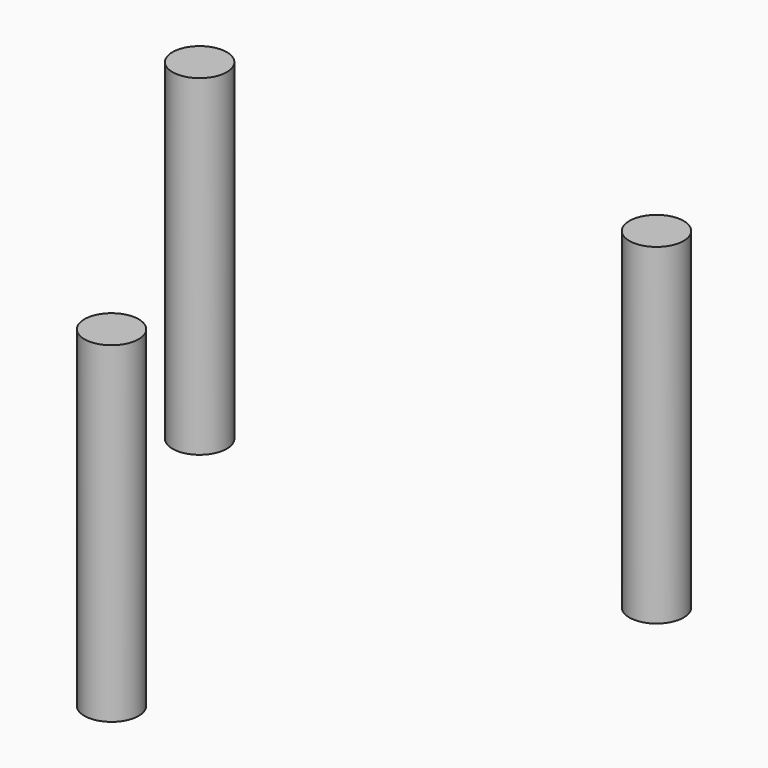
from build123d import *

# Parameters (mm, degrees)
CYLINDER028_R               = 0.9
CYLINDER028_DEPTH           = 11
CYLINDER028_PLACEMENT_ANGLE = 120
CYLINDER029_R               = 0.9
CYLINDER029_DEPTH           = 11
CYLINDER029_PLACEMENT_ANGLE = 240
CYLINDER027_R               = 0.9
CYLINDER027_DEPTH           = 11


with BuildPart() as cylinder028:
    # Cylinder028 → Cylinder028 (new body)
    with BuildSketch(Plane.XY):
        Circle(CYLINDER028_R)
    extrude(amount=CYLINDER028_DEPTH)


with BuildPart() as cylinder028_1:
    # Cylinder028 placement: moved
    add(cylinder028.part.moved(Location((7.577722, 4.375, -2.5))).rotate(Axis((7.577722, 4.375, -2.5), (0, 0, 1)), CYLINDER028_PLACEMENT_ANGLE))


with BuildPart() as cylinder029:
    # Cylinder029 → Cylinder029 (new body)
    with BuildSketch(Plane.XY):
        Circle(CYLINDER029_R)
    extrude(amount=CYLINDER029_DEPTH)


with BuildPart() as cylinder029_1:
    # Cylinder029 placement: moved
    add(cylinder029.part.moved(Location((-7.577722, 4.375, -2.5))).rotate(Axis((-7.577722, 4.375, -2.5), (0, 0, 1)), CYLINDER029_PLACEMENT_ANGLE))


with BuildPart() as fusion008:
    # Cylinder027 → Cylinder027 (new body)
    with BuildSketch(Plane(origin=(0, -8.75, -2.5), x_dir=(1, 0, 0), z_dir=(0, 0, 1))):
        Circle(CYLINDER027_R)
    extrude(amount=CYLINDER027_DEPTH)

    # Fusion008: union Cylinder028, Cylinder029
    add(cylinder028_1.part)
    add(cylinder029_1.part)


with BuildPart() as fusion008_1:
    # Fusion008 placement: moved
    add(fusion008.part.moved(Location((0, 0, 0.5))))


solid = fusion008_1.part
